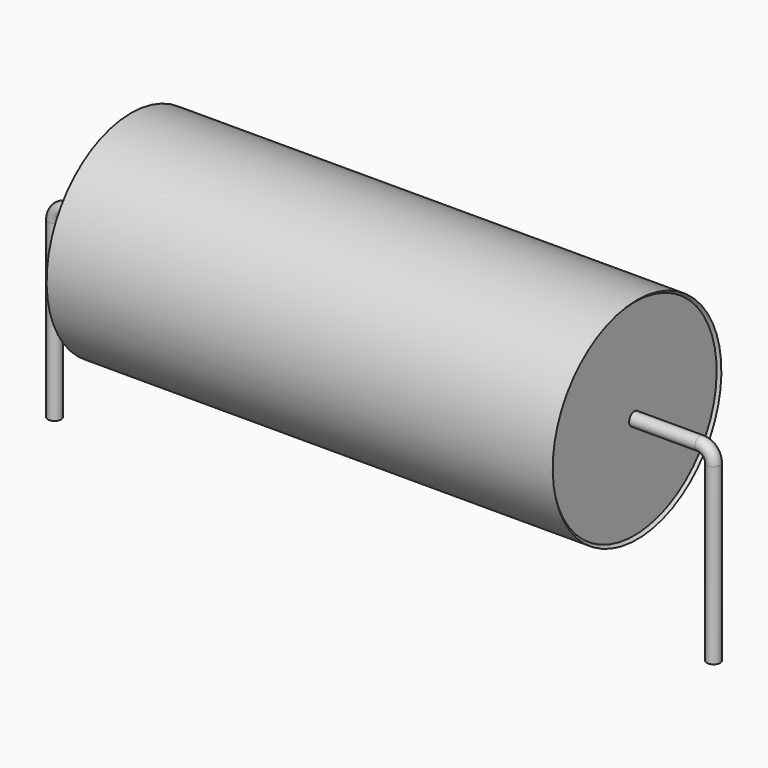
from build123d import *

# Parameters (mm, degrees)
SKETCH_R = 0.25


with BuildPart() as sweep_body:
    # Sweep: sweep along a path in Sketch001
    with BuildLine(Plane.XZ) as sweep_path:
        Line((0, -3), (0, 3.6))
        ThreePointArc((0, 3.6), (0.146449, 3.953556), (0.500006, 4.1))
        Line((0.500006, 4.1), (24.5, 4.1))
        ThreePointArc((24.5, 4.1), (24.853553, 3.953553), (25, 3.6))
        Line((25, 3.6), (25, -3))
    # Sketch → Sweep (sweep)
    with BuildSketch(Plane.XY.offset(-2)):
        Circle(SKETCH_R)
    sweep(path=sweep_path.line)


with BuildPart() as revolution:
    # Sketch002 → Revolution (revolve)
    with BuildSketch(Plane.XZ):
        Polygon((2.9, 8.1), (22.1, 8.1), (22, 8), (22, 4.1), (3, 4.1), (3, 8), align=None)
    revolve(axis=Axis((7.611803, 0, 4.1), (1, 0, 0)))


solid = Compound([sweep_body.part, revolution.part])
